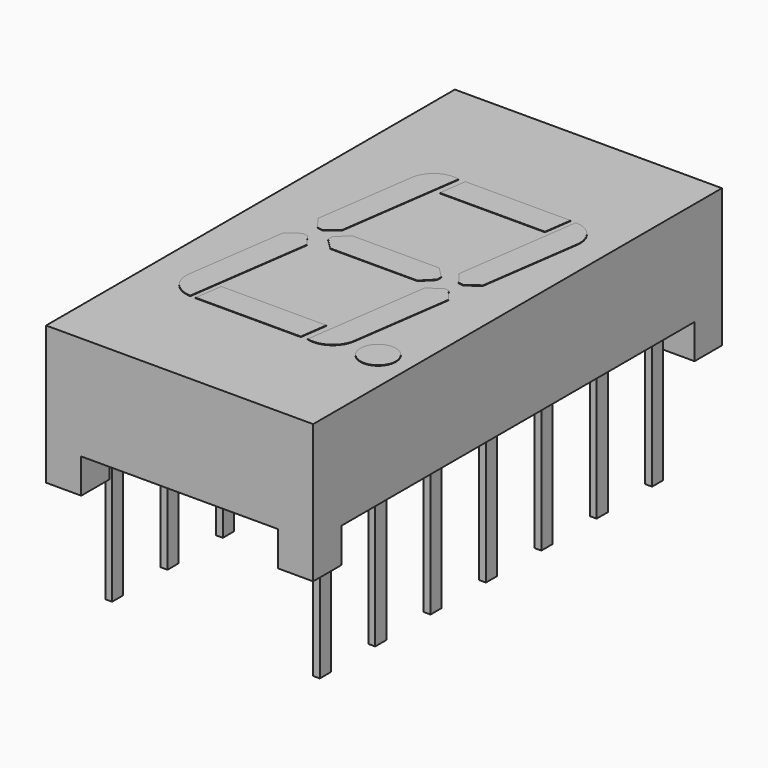
from build123d import *

# Parameters (mm, degrees)
BOX001_W                  = 20
BOX001_H                  = 16.2
BOX001_DEPTH              = 2.54
BOX_W                     = 7.22
BOX_H                     = 22
BOX_DEPTH                 = 2.54
SKETCH_W                  = 9.8
SKETCH_H                  = 18.75
PAD_DEPTH                 = 5.08
BOX003_W                  = 0.25
BOX003_H                  = 1.5
BOX003_DEPTH              = 1.5
BOX003_ROLL_ANGLE         = 45
BOX002_W                  = 0.25
BOX002_H                  = 0.51
BOX002_DEPTH              = 6
BOX005_W                  = 0.25
BOX005_H                  = 1.5
BOX005_DEPTH              = 1.5
BOX005_ROLL_ANGLE         = 45
BOX004_W                  = 0.25
BOX004_H                  = 0.51
BOX004_DEPTH              = 6
BOX007_W                  = 0.25
BOX007_H                  = 1.5
BOX007_DEPTH              = 1.5
BOX007_ROLL_ANGLE         = 45
BOX006_W                  = 0.25
BOX006_H                  = 0.51
BOX006_DEPTH              = 6
BOX009_W                  = 0.25
BOX009_H                  = 1.5
BOX009_DEPTH              = 1.5
BOX009_ROLL_ANGLE         = 45
BOX008_W                  = 0.25
BOX008_H                  = 0.51
BOX008_DEPTH              = 6
BOX011_W                  = 0.25
BOX011_H                  = 1.5
BOX011_DEPTH              = 1.5
BOX011_ROLL_ANGLE         = 45
BOX010_W                  = 0.25
BOX010_H                  = 0.51
BOX010_DEPTH              = 6
BOX013_W                  = 0.25
BOX013_H                  = 1.5
BOX013_DEPTH              = 1.5
BOX013_ROLL_ANGLE         = 45
BOX012_W                  = 0.25
BOX012_H                  = 0.51
BOX012_DEPTH              = 6
BOX015_W                  = 0.25
BOX015_H                  = 1.5
BOX015_DEPTH              = 1.5
BOX015_ROLL_ANGLE         = 45
BOX014_W                  = 0.25
BOX014_H                  = 0.51
BOX014_DEPTH              = 6
BOX017_W                  = 0.25
BOX017_H                  = 1.5
BOX017_DEPTH              = 1.5
BOX017_ROLL_ANGLE         = 45
BOX016_W                  = 0.25
BOX016_H                  = 0.51
BOX016_DEPTH              = 6
BOX019_W                  = 0.25
BOX019_H                  = 1.5
BOX019_DEPTH              = 1.5
BOX019_ROLL_ANGLE         = 45
BOX018_W                  = 0.25
BOX018_H                  = 0.51
BOX018_DEPTH              = 6
BOX021_W                  = 0.25
BOX021_H                  = 1.5
BOX021_DEPTH              = 1.5
BOX021_ROLL_ANGLE         = 45
BOX020_W                  = 0.25
BOX020_H                  = 0.51
BOX020_DEPTH              = 6
BOX023_W                  = 0.25
BOX023_H                  = 1.5
BOX023_DEPTH              = 1.5
BOX023_ROLL_ANGLE         = 45
BOX022_W                  = 0.25
BOX022_H                  = 0.51
BOX022_DEPTH              = 6
BOX025_W                  = 0.25
BOX025_H                  = 1.5
BOX025_DEPTH              = 1.5
BOX025_ROLL_ANGLE         = 45
BOX024_W                  = 0.25
BOX024_H                  = 0.51
BOX024_DEPTH              = 6
BOX027_W                  = 0.25
BOX027_H                  = 1.5
BOX027_DEPTH              = 1.5
BOX027_ROLL_ANGLE         = 45
BOX026_W                  = 0.25
BOX026_H                  = 0.51
BOX026_DEPTH              = 6
BOX029_W                  = 0.25
BOX029_H                  = 1.5
BOX029_DEPTH              = 1.5
BOX029_ROLL_ANGLE         = 45
BOX028_W                  = 0.25
BOX028_H                  = 0.51
BOX028_DEPTH              = 6
BOX039_W                  = 3
BOX039_H                  = 1
BOX039_DEPTH              = 2
BOX039_PLACEMENT_ANGLE    = -8
BOX040_W                  = 3
BOX040_H                  = 1
BOX040_DEPTH              = 2
BOX040_PLACEMENT_ANGLE    = -8
BOX038_W                  = 1
BOX038_H                  = 4
BOX038_DEPTH              = 2
BOX035_W                  = 3
BOX035_H                  = 1
BOX035_DEPTH              = 2
BOX035_PLACEMENT_ANGLE    = -8
BOX036_W                  = 3
BOX036_H                  = 1
BOX036_DEPTH              = 2
BOX036_PLACEMENT_ANGLE    = -8
BOX034_W                  = 1
BOX034_H                  = 4
BOX034_DEPTH              = 2
BOX030_W                  = 5
BOX030_H                  = 1
BOX030_DEPTH              = 2
BOX030_PLACEMENT_ANGLE    = -8
CHAMFER010_SIZE           = 0.4
CHAMFER011_SIZE           = 0.4
FILLET003_R               = 0.9
BOX033_W                  = 5
BOX033_H                  = 1
BOX033_DEPTH              = 2
BOX033_PLACEMENT_ANGLE    = -8
CHAMFER006_SIZE           = 0.4
CHAMFER007_SIZE           = 0.4
FILLET001_R               = 0.9
BOX031_W                  = 5
BOX031_H                  = 1
BOX031_DEPTH              = 2
BOX031_PLACEMENT_ANGLE    = -8
CHAMFER008_SIZE           = 0.4
CHAMFER009_SIZE           = 0.4
FILLET002_R               = 0.9
BOX037_W                  = 1
BOX037_H                  = 4
BOX037_DEPTH              = 2
CHAMFER012_SIZE           = 0.4
CHAMFER013_SIZE           = 0.4
CHAMFER014_SIZE           = 0.4
CHAMFER015_SIZE           = 0.4
CYLINDER016_R             = 0.65
CYLINDER016_DEPTH         = 2
BOX032_W                  = 5
BOX032_H                  = 1
BOX032_DEPTH              = 2
BOX032_PLACEMENT_ANGLE    = -8
CHAMFER004_SIZE           = 0.4
CHAMFER005_SIZE           = 0.4
FILLET_R                  = 0.9
FUSION014_PLACEMENT_ANGLE = 90


with BuildPart() as kub001:
    # Box001 → Box001 (new body)
    with BuildSketch(Plane(origin=(-6, -15.7, -1.27), x_dir=(1, 0, 0), z_dir=(0, 0, 1))):
        with Locations((10, 8.1)):
            Rectangle(BOX001_W, BOX001_H)
    extrude(amount=BOX001_DEPTH)


with BuildPart() as kub:
    # Box → Box (new body)
    with BuildSketch(Plane(origin=(0.2, -18, -1.27), x_dir=(1, 0, 0), z_dir=(0, 0, 1))):
        with Locations((3.61, 11)):
            Rectangle(BOX_W, BOX_H)
    extrude(amount=BOX_DEPTH)


with BuildPart() as cut001:
    # Sketch → Pad (new body)
    with BuildSketch(Plane.XY):
        with Locations((3.81, -7.62)):
            Rectangle(SKETCH_W, SKETCH_H)
    extrude(amount=PAD_DEPTH)

    # Cut: cut Kub
    add(kub.part, mode=Mode.SUBTRACT)

    # Cut001: cut Kub001
    add(kub001.part, mode=Mode.SUBTRACT)


with BuildPart() as kub003:
    # Box003 → Box003 (new body)
    with BuildSketch(Plane.XY):
        with Locations((0.125, 0.75)):
            Rectangle(BOX003_W, BOX003_H)
    extrude(amount=BOX003_DEPTH)


with BuildPart() as kub003_1:
    # Box003 roll: moved
    add(kub003.part.rotate(Axis((0, 0, 0), (1, 0, 0)), BOX003_ROLL_ANGLE))


with BuildPart() as kub003_2:
    # Box003 placement: moved
    add(kub003_1.part.moved(Location((-0.12, 0, 0.3))))


with BuildPart() as leg001:
    # Box002 → Box002 (new body)
    with BuildSketch(Plane(origin=(-0.12, -0.2505, -4.06), x_dir=(1, 0, 0), z_dir=(0, 0, 1))):
        with Locations((0.125, 0.255)):
            Rectangle(BOX002_W, BOX002_H)
    extrude(amount=BOX002_DEPTH)

    # Fusion: union Kub003
    add(kub003_2.part)


with BuildPart() as kub005:
    # Box005 → Box005 (new body)
    with BuildSketch(Plane.XY):
        with Locations((0.125, 0.75)):
            Rectangle(BOX005_W, BOX005_H)
    extrude(amount=BOX005_DEPTH)


with BuildPart() as kub005_1:
    # Box005 roll: moved
    add(kub005.part.rotate(Axis((0, 0, 0), (1, 0, 0)), BOX005_ROLL_ANGLE))


with BuildPart() as kub005_2:
    # Box005 placement: moved
    add(kub005_1.part.moved(Location((-0.12, 0, 0.3))))


with BuildPart() as leg002:
    # Box004 → Box004 (new body)
    with BuildSketch(Plane(origin=(-0.12, -0.2505, -4.06), x_dir=(1, 0, 0), z_dir=(0, 0, 1))):
        with Locations((0.125, 0.255)):
            Rectangle(BOX004_W, BOX004_H)
    extrude(amount=BOX004_DEPTH)

    # Fusion001: union Kub005
    add(kub005_2.part)


with BuildPart() as leg002_1:
    # Fusion001 placement: moved
    add(leg002.part.moved(Location((0, -2.54, 0))))


with BuildPart() as kub007:
    # Box007 → Box007 (new body)
    with BuildSketch(Plane.XY):
        with Locations((0.125, 0.75)):
            Rectangle(BOX007_W, BOX007_H)
    extrude(amount=BOX007_DEPTH)


with BuildPart() as kub007_1:
    # Box007 roll: moved
    add(kub007.part.rotate(Axis((0, 0, 0), (1, 0, 0)), BOX007_ROLL_ANGLE))


with BuildPart() as kub007_2:
    # Box007 placement: moved
    add(kub007_1.part.moved(Location((-0.12, 0, 0.3))))


with BuildPart() as leg003:
    # Box006 → Box006 (new body)
    with BuildSketch(Plane(origin=(-0.12, -0.2505, -4.06), x_dir=(1, 0, 0), z_dir=(0, 0, 1))):
        with Locations((0.125, 0.255)):
            Rectangle(BOX006_W, BOX006_H)
    extrude(amount=BOX006_DEPTH)

    # Fusion002: union Kub007
    add(kub007_2.part)


with BuildPart() as leg003_1:
    # Fusion002 placement: moved
    add(leg003.part.moved(Location((0, -5.08, 0))))


with BuildPart() as kub009:
    # Box009 → Box009 (new body)
    with BuildSketch(Plane.XY):
        with Locations((0.125, 0.75)):
            Rectangle(BOX009_W, BOX009_H)
    extrude(amount=BOX009_DEPTH)


with BuildPart() as kub009_1:
    # Box009 roll: moved
    add(kub009.part.rotate(Axis((0, 0, 0), (1, 0, 0)), BOX009_ROLL_ANGLE))


with BuildPart() as kub009_2:
    # Box009 placement: moved
    add(kub009_1.part.moved(Location((-0.12, 0, 0.3))))


with BuildPart() as leg004:
    # Box008 → Box008 (new body)
    with BuildSketch(Plane(origin=(-0.12, -0.2505, -4.06), x_dir=(1, 0, 0), z_dir=(0, 0, 1))):
        with Locations((0.125, 0.255)):
            Rectangle(BOX008_W, BOX008_H)
    extrude(amount=BOX008_DEPTH)

    # Fusion003: union Kub009
    add(kub009_2.part)


with BuildPart() as leg004_1:
    # Fusion003 placement: moved
    add(leg004.part.moved(Location((0, -7.62, 0))))


with BuildPart() as kub011:
    # Box011 → Box011 (new body)
    with BuildSketch(Plane.XY):
        with Locations((0.125, 0.75)):
            Rectangle(BOX011_W, BOX011_H)
    extrude(amount=BOX011_DEPTH)


with BuildPart() as kub011_1:
    # Box011 roll: moved
    add(kub011.part.rotate(Axis((0, 0, 0), (1, 0, 0)), BOX011_ROLL_ANGLE))


with BuildPart() as kub011_2:
    # Box011 placement: moved
    add(kub011_1.part.moved(Location((-0.12, 0, 0.3))))


with BuildPart() as leg005:
    # Box010 → Box010 (new body)
    with BuildSketch(Plane(origin=(-0.12, -0.2505, -4.06), x_dir=(1, 0, 0), z_dir=(0, 0, 1))):
        with Locations((0.125, 0.255)):
            Rectangle(BOX010_W, BOX010_H)
    extrude(amount=BOX010_DEPTH)

    # Fusion004: union Kub011
    add(kub011_2.part)


with BuildPart() as leg005_1:
    # Fusion004 placement: moved
    add(leg005.part.moved(Location((0, -10.16, 0))))


with BuildPart() as kub013:
    # Box013 → Box013 (new body)
    with BuildSketch(Plane.XY):
        with Locations((0.125, 0.75)):
            Rectangle(BOX013_W, BOX013_H)
    extrude(amount=BOX013_DEPTH)


with BuildPart() as kub013_1:
    # Box013 roll: moved
    add(kub013.part.rotate(Axis((0, 0, 0), (1, 0, 0)), BOX013_ROLL_ANGLE))


with BuildPart() as kub013_2:
    # Box013 placement: moved
    add(kub013_1.part.moved(Location((-0.12, 0, 0.3))))


with BuildPart() as leg006:
    # Box012 → Box012 (new body)
    with BuildSketch(Plane(origin=(-0.12, -0.2505, -4.06), x_dir=(1, 0, 0), z_dir=(0, 0, 1))):
        with Locations((0.125, 0.255)):
            Rectangle(BOX012_W, BOX012_H)
    extrude(amount=BOX012_DEPTH)

    # Fusion005: union Kub013
    add(kub013_2.part)


with BuildPart() as leg006_1:
    # Fusion005 placement: moved
    add(leg006.part.moved(Location((0, -12.7, 0))))


with BuildPart() as kub015:
    # Box015 → Box015 (new body)
    with BuildSketch(Plane.XY):
        with Locations((0.125, 0.75)):
            Rectangle(BOX015_W, BOX015_H)
    extrude(amount=BOX015_DEPTH)


with BuildPart() as kub015_1:
    # Box015 roll: moved
    add(kub015.part.rotate(Axis((0, 0, 0), (1, 0, 0)), BOX015_ROLL_ANGLE))


with BuildPart() as kub015_2:
    # Box015 placement: moved
    add(kub015_1.part.moved(Location((-0.12, 0, 0.3))))


with BuildPart() as leg007:
    # Box014 → Box014 (new body)
    with BuildSketch(Plane(origin=(-0.12, -0.2505, -4.06), x_dir=(1, 0, 0), z_dir=(0, 0, 1))):
        with Locations((0.125, 0.255)):
            Rectangle(BOX014_W, BOX014_H)
    extrude(amount=BOX014_DEPTH)

    # Fusion006: union Kub015
    add(kub015_2.part)


with BuildPart() as leg007_1:
    # Fusion006 placement: moved
    add(leg007.part.moved(Location((0, -15.24, 0))))


with BuildPart() as kub017:
    # Box017 → Box017 (new body)
    with BuildSketch(Plane.XY):
        with Locations((0.125, 0.75)):
            Rectangle(BOX017_W, BOX017_H)
    extrude(amount=BOX017_DEPTH)


with BuildPart() as kub017_1:
    # Box017 roll: moved
    add(kub017.part.rotate(Axis((0, 0, 0), (1, 0, 0)), BOX017_ROLL_ANGLE))


with BuildPart() as kub017_2:
    # Box017 placement: moved
    add(kub017_1.part.moved(Location((-0.12, 0, 0.3))))


with BuildPart() as leg008:
    # Box016 → Box016 (new body)
    with BuildSketch(Plane(origin=(-0.12, -0.2505, -4.06), x_dir=(1, 0, 0), z_dir=(0, 0, 1))):
        with Locations((0.125, 0.255)):
            Rectangle(BOX016_W, BOX016_H)
    extrude(amount=BOX016_DEPTH)

    # Fusion007: union Kub017
    add(kub017_2.part)


with BuildPart() as leg008_1:
    # Fusion007 placement: moved
    add(leg008.part.moved(Location((7.62, -15.24, 0))))


with BuildPart() as kub019:
    # Box019 → Box019 (new body)
    with BuildSketch(Plane.XY):
        with Locations((0.125, 0.75)):
            Rectangle(BOX019_W, BOX019_H)
    extrude(amount=BOX019_DEPTH)


with BuildPart() as kub019_1:
    # Box019 roll: moved
    add(kub019.part.rotate(Axis((0, 0, 0), (1, 0, 0)), BOX019_ROLL_ANGLE))


with BuildPart() as kub019_2:
    # Box019 placement: moved
    add(kub019_1.part.moved(Location((-0.12, 0, 0.3))))


with BuildPart() as leg009:
    # Box018 → Box018 (new body)
    with BuildSketch(Plane(origin=(-0.12, -0.2505, -4.06), x_dir=(1, 0, 0), z_dir=(0, 0, 1))):
        with Locations((0.125, 0.255)):
            Rectangle(BOX018_W, BOX018_H)
    extrude(amount=BOX018_DEPTH)

    # Fusion008: union Kub019
    add(kub019_2.part)


with BuildPart() as leg009_1:
    # Fusion008 placement: moved
    add(leg009.part.moved(Location((7.62, -12.7, 0))))


with BuildPart() as kub021:
    # Box021 → Box021 (new body)
    with BuildSketch(Plane.XY):
        with Locations((0.125, 0.75)):
            Rectangle(BOX021_W, BOX021_H)
    extrude(amount=BOX021_DEPTH)


with BuildPart() as kub021_1:
    # Box021 roll: moved
    add(kub021.part.rotate(Axis((0, 0, 0), (1, 0, 0)), BOX021_ROLL_ANGLE))


with BuildPart() as kub021_2:
    # Box021 placement: moved
    add(kub021_1.part.moved(Location((-0.12, 0, 0.3))))


with BuildPart() as leg010:
    # Box020 → Box020 (new body)
    with BuildSketch(Plane(origin=(-0.12, -0.2505, -4.06), x_dir=(1, 0, 0), z_dir=(0, 0, 1))):
        with Locations((0.125, 0.255)):
            Rectangle(BOX020_W, BOX020_H)
    extrude(amount=BOX020_DEPTH)

    # Fusion009: union Kub021
    add(kub021_2.part)


with BuildPart() as leg010_1:
    # Fusion009 placement: moved
    add(leg010.part.moved(Location((7.62, -10.16, 0))))


with BuildPart() as kub023:
    # Box023 → Box023 (new body)
    with BuildSketch(Plane.XY):
        with Locations((0.125, 0.75)):
            Rectangle(BOX023_W, BOX023_H)
    extrude(amount=BOX023_DEPTH)


with BuildPart() as kub023_1:
    # Box023 roll: moved
    add(kub023.part.rotate(Axis((0, 0, 0), (1, 0, 0)), BOX023_ROLL_ANGLE))


with BuildPart() as kub023_2:
    # Box023 placement: moved
    add(kub023_1.part.moved(Location((-0.12, 0, 0.3))))


with BuildPart() as leg011:
    # Box022 → Box022 (new body)
    with BuildSketch(Plane(origin=(-0.12, -0.2505, -4.06), x_dir=(1, 0, 0), z_dir=(0, 0, 1))):
        with Locations((0.125, 0.255)):
            Rectangle(BOX022_W, BOX022_H)
    extrude(amount=BOX022_DEPTH)

    # Fusion010: union Kub023
    add(kub023_2.part)


with BuildPart() as leg011_1:
    # Fusion010 placement: moved
    add(leg011.part.moved(Location((7.62, -7.62, 0))))


with BuildPart() as kub025:
    # Box025 → Box025 (new body)
    with BuildSketch(Plane.XY):
        with Locations((0.125, 0.75)):
            Rectangle(BOX025_W, BOX025_H)
    extrude(amount=BOX025_DEPTH)


with BuildPart() as kub025_1:
    # Box025 roll: moved
    add(kub025.part.rotate(Axis((0, 0, 0), (1, 0, 0)), BOX025_ROLL_ANGLE))


with BuildPart() as kub025_2:
    # Box025 placement: moved
    add(kub025_1.part.moved(Location((-0.12, 0, 0.3))))


with BuildPart() as leg012:
    # Box024 → Box024 (new body)
    with BuildSketch(Plane(origin=(-0.12, -0.2505, -4.06), x_dir=(1, 0, 0), z_dir=(0, 0, 1))):
        with Locations((0.125, 0.255)):
            Rectangle(BOX024_W, BOX024_H)
    extrude(amount=BOX024_DEPTH)

    # Fusion011: union Kub025
    add(kub025_2.part)


with BuildPart() as leg012_1:
    # Fusion011 placement: moved
    add(leg012.part.moved(Location((7.62, -5.08, 0))))


with BuildPart() as kub027:
    # Box027 → Box027 (new body)
    with BuildSketch(Plane.XY):
        with Locations((0.125, 0.75)):
            Rectangle(BOX027_W, BOX027_H)
    extrude(amount=BOX027_DEPTH)


with BuildPart() as kub027_1:
    # Box027 roll: moved
    add(kub027.part.rotate(Axis((0, 0, 0), (1, 0, 0)), BOX027_ROLL_ANGLE))


with BuildPart() as kub027_2:
    # Box027 placement: moved
    add(kub027_1.part.moved(Location((-0.12, 0, 0.3))))


with BuildPart() as leg013:
    # Box026 → Box026 (new body)
    with BuildSketch(Plane(origin=(-0.12, -0.2505, -4.06), x_dir=(1, 0, 0), z_dir=(0, 0, 1))):
        with Locations((0.125, 0.255)):
            Rectangle(BOX026_W, BOX026_H)
    extrude(amount=BOX026_DEPTH)

    # Fusion012: union Kub027
    add(kub027_2.part)


with BuildPart() as leg013_1:
    # Fusion012 placement: moved
    add(leg013.part.moved(Location((7.62, -2.54, 0))))


with BuildPart() as kub029:
    # Box029 → Box029 (new body)
    with BuildSketch(Plane.XY):
        with Locations((0.125, 0.75)):
            Rectangle(BOX029_W, BOX029_H)
    extrude(amount=BOX029_DEPTH)


with BuildPart() as kub029_1:
    # Box029 roll: moved
    add(kub029.part.rotate(Axis((0, 0, 0), (1, 0, 0)), BOX029_ROLL_ANGLE))


with BuildPart() as kub029_2:
    # Box029 placement: moved
    add(kub029_1.part.moved(Location((-0.12, 0, 0.3))))


with BuildPart() as leg014:
    # Box028 → Box028 (new body)
    with BuildSketch(Plane(origin=(-0.12, -0.2505, -4.06), x_dir=(1, 0, 0), z_dir=(0, 0, 1))):
        with Locations((0.125, 0.255)):
            Rectangle(BOX028_W, BOX028_H)
    extrude(amount=BOX028_DEPTH)

    # Fusion013: union Kub029
    add(kub029_2.part)


with BuildPart() as leg014_1:
    # Fusion013 placement: moved
    add(leg014.part.moved(Location((7.62, 0, 0))))


with BuildPart() as kub039:
    # Box039 → Box039 (new body)
    with BuildSketch(Plane.XY):
        with Locations((1.5, 0.5)):
            Rectangle(BOX039_W, BOX039_H)
    extrude(amount=BOX039_DEPTH)


with BuildPart() as kub039_1:
    # Box039 placement: moved
    add(kub039.part.moved(Location((-5, 18.14, 0))).rotate(Axis((-5, 18.14, 0), (0, 0, 1)), BOX039_PLACEMENT_ANGLE))


with BuildPart() as kub040:
    # Box040 → Box040 (new body)
    with BuildSketch(Plane.XY):
        with Locations((1.5, 0.5)):
            Rectangle(BOX040_W, BOX040_H)
    extrude(amount=BOX040_DEPTH)


with BuildPart() as kub040_1:
    # Box040 placement: moved
    add(kub040.part.moved(Location((-5, 13.27, 0))).rotate(Axis((-5, 13.27, 0), (0, 0, 1)), BOX040_PLACEMENT_ANGLE))


with BuildPart() as cut005:
    # Box038 → Box038 (new body)
    with BuildSketch(Plane(origin=(-4, 14, 0), x_dir=(1, 0, 0), z_dir=(0, 0, 1))):
        with Locations((0.5, 2)):
            Rectangle(BOX038_W, BOX038_H)
    extrude(amount=BOX038_DEPTH)

    # Cut004: cut Kub040
    add(kub040_1.part, mode=Mode.SUBTRACT)

    # Cut005: cut Kub039
    add(kub039_1.part, mode=Mode.SUBTRACT)


with BuildPart() as cut005_1:
    # Cut005 placement: moved
    add(cut005.part.moved(Location((13.45, -1.6, 0))))


with BuildPart() as kub035:
    # Box035 → Box035 (new body)
    with BuildSketch(Plane.XY):
        with Locations((1.5, 0.5)):
            Rectangle(BOX035_W, BOX035_H)
    extrude(amount=BOX035_DEPTH)


with BuildPart() as kub035_1:
    # Box035 placement: moved
    add(kub035.part.moved(Location((-5, 18.14, 0))).rotate(Axis((-5, 18.14, 0), (0, 0, 1)), BOX035_PLACEMENT_ANGLE))


with BuildPart() as kub036:
    # Box036 → Box036 (new body)
    with BuildSketch(Plane.XY):
        with Locations((1.5, 0.5)):
            Rectangle(BOX036_W, BOX036_H)
    extrude(amount=BOX036_DEPTH)


with BuildPart() as kub036_1:
    # Box036 placement: moved
    add(kub036.part.moved(Location((-5, 13.27, 0))).rotate(Axis((-5, 13.27, 0), (0, 0, 1)), BOX036_PLACEMENT_ANGLE))


with BuildPart() as cut003:
    # Box034 → Box034 (new body)
    with BuildSketch(Plane(origin=(-4, 14, 0), x_dir=(1, 0, 0), z_dir=(0, 0, 1))):
        with Locations((0.5, 2)):
            Rectangle(BOX034_W, BOX034_H)
    extrude(amount=BOX034_DEPTH)

    # Cut002: cut Kub036
    add(kub036_1.part, mode=Mode.SUBTRACT)

    # Cut003: cut Kub035
    add(kub035_1.part, mode=Mode.SUBTRACT)


with BuildPart() as cut003_1:
    # Cut003 placement: moved
    add(cut003.part.moved(Location((4, -0.2, 0))))


with BuildPart() as fillet003:
    # Box030 → Box030 (new body)
    with BuildSketch(Plane.XY):
        with Locations((2.5, 0.5)):
            Rectangle(BOX030_W, BOX030_H)
    extrude(amount=BOX030_DEPTH)


with BuildPart() as fillet003_1:
    # Box030 placement: moved
    add(fillet003.part.moved(Location((0, 18, 0))).rotate(Axis((0, 18, 0), (0, 0, 1)), BOX030_PLACEMENT_ANGLE))

    # Chamfer010
    chamfer010_edges = [fillet003_1.edges().sort_by_distance(p)[0] for p in [
        (4.95134, 17.304134, 1),
    ]]
    chamfer(chamfer010_edges, length=CHAMFER010_SIZE)

    # Chamfer011
    chamfer011_edges = [fillet003_1.edges().sort_by_distance(p)[0] for p in [
        (5.090513, 18.294403, 1),
    ]]
    chamfer(chamfer011_edges, length=CHAMFER011_SIZE)

    # Fillet003
    fillet003_edges = [fillet003_1.edges().sort_by_distance(p)[0] for p in [
        (0.139173, 18.990268, 1),
    ]]
    fillet(fillet003_edges, radius=FILLET003_R)


with BuildPart() as fillet001:
    # Box033 → Box033 (new body)
    with BuildSketch(Plane.XY):
        with Locations((2.5, 0.5)):
            Rectangle(BOX033_W, BOX033_H)
    extrude(amount=BOX033_DEPTH)


with BuildPart() as fillet001_1:
    # Box033 placement: moved
    add(fillet001.part.moved(Location((9, 13, 0))).rotate(Axis((9, 13, 0), (0, 0, 1)), BOX033_PLACEMENT_ANGLE))

    # Chamfer006
    chamfer006_edges = [fillet001_1.edges().sort_by_distance(p)[0] for p in [
        (9.139173, 13.990268, 1),
    ]]
    chamfer(chamfer006_edges, length=CHAMFER006_SIZE)

    # Chamfer007
    chamfer007_edges = [fillet001_1.edges().sort_by_distance(p)[0] for p in [
        (9, 13, 1),
    ]]
    chamfer(chamfer007_edges, length=CHAMFER007_SIZE)

    # Fillet001
    fillet001_edges = [fillet001_1.edges().sort_by_distance(p)[0] for p in [
        (13.95134, 12.304134, 1),
    ]]
    fillet(fillet001_edges, radius=FILLET001_R)


with BuildPart() as fillet001_2:
    # Fillet001 placement: moved
    add(fillet001_1.part.moved(Location((-3.65, -1.1, 0))))


with BuildPart() as fillet002:
    # Box031 → Box031 (new body)
    with BuildSketch(Plane.XY):
        with Locations((2.5, 0.5)):
            Rectangle(BOX031_W, BOX031_H)
    extrude(amount=BOX031_DEPTH)


with BuildPart() as fillet002_1:
    # Box031 placement: moved
    add(fillet002.part.moved(Location((0, 13, 0))).rotate(Axis((0, 13, 0), (0, 0, 1)), BOX031_PLACEMENT_ANGLE))

    # Chamfer008
    chamfer008_edges = [fillet002_1.edges().sort_by_distance(p)[0] for p in [
        (4.95134, 12.304134, 1),
    ]]
    chamfer(chamfer008_edges, length=CHAMFER008_SIZE)

    # Chamfer009
    chamfer009_edges = [fillet002_1.edges().sort_by_distance(p)[0] for p in [
        (5.090513, 13.294403, 1),
    ]]
    chamfer(chamfer009_edges, length=CHAMFER009_SIZE)

    # Fillet002
    fillet002_edges = [fillet002_1.edges().sort_by_distance(p)[0] for p in [
        (0, 13, 1),
    ]]
    fillet(fillet002_edges, radius=FILLET002_R)


with BuildPart() as fillet002_2:
    # Fillet002 placement: moved
    add(fillet002_1.part.moved(Location((-0.14, -0.3, 0))))


with BuildPart() as chamfer015:
    # Box037 → Box037 (new body)
    with BuildSketch(Plane(origin=(-10, 14, 0), x_dir=(1, 0, 0), z_dir=(0, 0, 1))):
        with Locations((0.5, 2)):
            Rectangle(BOX037_W, BOX037_H)
    extrude(amount=BOX037_DEPTH)

    # Chamfer012
    chamfer012_edges = [chamfer015.edges().sort_by_distance(p)[0] for p in [
        (-9, 14, 1),
    ]]
    chamfer(chamfer012_edges, length=CHAMFER012_SIZE)

    # Chamfer013
    chamfer013_edges = [chamfer015.edges().sort_by_distance(p)[0] for p in [
        (-9, 18, 1),
    ]]
    chamfer(chamfer013_edges, length=CHAMFER013_SIZE)

    # Chamfer014
    chamfer014_edges = [chamfer015.edges().sort_by_distance(p)[0] for p in [
        (-10, 14, 1),
    ]]
    chamfer(chamfer014_edges, length=CHAMFER014_SIZE)

    # Chamfer015
    chamfer015_edges = [chamfer015.edges().sort_by_distance(p)[0] for p in [
        (-10, 18, 1),
    ]]
    chamfer(chamfer015_edges, length=CHAMFER015_SIZE)


with BuildPart() as chamfer015_1:
    # Chamfer015 placement: moved
    add(chamfer015.part.moved(Location((14.8, -0.9, 0))))


with BuildPart() as cylinder:
    # Cylinder016 → Cylinder016 (new body)
    with BuildSketch(Plane(origin=(0.5, 11.5, 0), x_dir=(1, 0, 0), z_dir=(0, 0, 1))):
        Circle(CYLINDER016_R)
    extrude(amount=CYLINDER016_DEPTH)


with BuildPart() as digit001:
    # Box032 → Box032 (new body)
    with BuildSketch(Plane.XY):
        with Locations((2.5, 0.5)):
            Rectangle(BOX032_W, BOX032_H)
    extrude(amount=BOX032_DEPTH)


with BuildPart() as digit001_1:
    # Box032 placement: moved
    add(digit001.part.moved(Location((9, 18, 0))).rotate(Axis((9, 18, 0), (0, 0, 1)), BOX032_PLACEMENT_ANGLE))

    # Chamfer004
    chamfer004_edges = [digit001_1.edges().sort_by_distance(p)[0] for p in [
        (9, 18, 1),
    ]]
    chamfer(chamfer004_edges, length=CHAMFER004_SIZE)

    # Chamfer005
    chamfer005_edges = [digit001_1.edges().sort_by_distance(p)[0] for p in [
        (9.139173, 18.990268, 1),
    ]]
    chamfer(chamfer005_edges, length=CHAMFER005_SIZE)

    # Fillet
    fillet_edges = [digit001_1.edges().sort_by_distance(p)[0] for p in [
        (14.090513, 18.294403, 1),
    ]]
    fillet(fillet_edges, radius=FILLET_R)


with BuildPart() as digit001_2:
    # Fillet placement: moved
    add(digit001_1.part.moved(Location((-3.5, -0.8, 0))))

    # Fusion014: union Cut005, Cut003, Fillet003, Fillet001, Fillet002, Chamfer015, Cylinder
    add(cut005_1.part)
    add(cut003_1.part)
    add(fillet003_1.part)
    add(fillet001_2.part)
    add(fillet002_2.part)
    add(chamfer015_1.part)
    add(cylinder.part)


with BuildPart() as digit001_3:
    # Fusion014 placement: moved
    add(digit001_2.part.moved(Location((19, -13, 3.1))).rotate(Axis((19, -13, 3.1), (0, 0, 1)), FUSION014_PLACEMENT_ANGLE))


solid = Compound([cut001.part, leg001.part, leg002_1.part, leg003_1.part, leg004_1.part, leg005_1.part, leg006_1.part, leg007_1.part, leg008_1.part, leg009_1.part, leg010_1.part, leg011_1.part, leg012_1.part, leg013_1.part, leg014_1.part, digit001_3.part])
